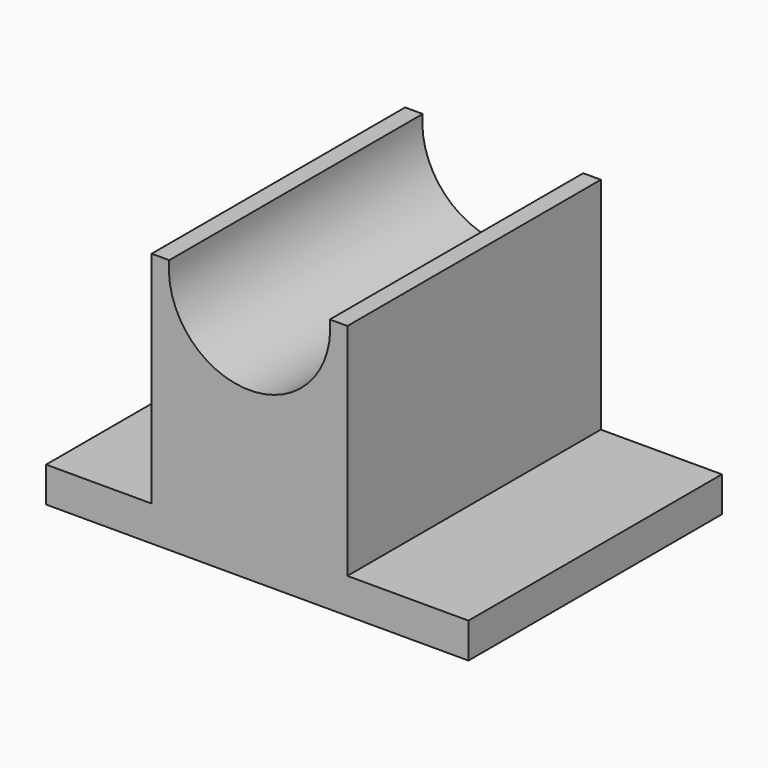
from build123d import *

# Parameters (mm, degrees)
F1_DEPTH = 25.4
F2_DEPTH = 114.3


with BuildPart() as f1:
    # F0 (on Front) → F1 (new body)
    with BuildSketch(Plane.XZ):
        with BuildLine():
            Line((0, 12.7), (0, 0))
            Line((0, 0), (152.4, 0))
            Line((152.4, 0), (152.4, 12.7))
            Line((152.4, 12.7), (108.717043, 12.7))
            Line((108.717043, 12.7), (108.717043, 92.075))
            Line((108.717043, 92.075), (102.367043, 92.075))
            ThreePointArc((102.367043, 92.075), (73.408522, 60.190768), (44.45, 92.075))
            Line((44.45, 92.075), (38.1, 92.075))
            Line((38.1, 92.075), (38.1, 12.7))
            Line((38.1, 12.7), (0, 12.7))
        make_face()
    extrude(amount=F1_DEPTH)

    # F0 (on Front) → F2 (join)
    with BuildSketch(Plane.XZ):
        with BuildLine():
            Line((0, 12.7), (0, 0))
            Line((0, 0), (152.4, 0))
            Line((152.4, 0), (152.4, 12.7))
            Line((152.4, 12.7), (108.717043, 12.7))
            Line((108.717043, 12.7), (108.717043, 92.075))
            Line((108.717043, 92.075), (102.367043, 92.075))
            ThreePointArc((102.367043, 92.075), (73.408522, 60.190768), (44.45, 92.075))
            Line((44.45, 92.075), (38.1, 92.075))
            Line((38.1, 92.075), (38.1, 12.7))
            Line((38.1, 12.7), (0, 12.7))
        make_face()
    extrude(amount=F2_DEPTH)


solid = f1.part
